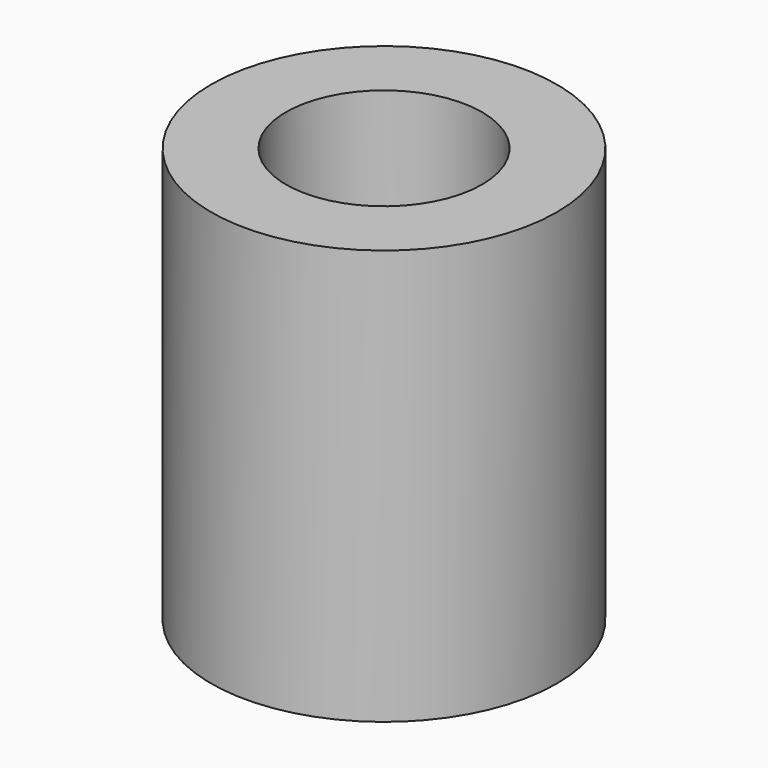
from build123d import *

# Parameters (mm, degrees)
F0_R     = 15.875
F1_DEPTH = 38.1
F2_W     = 9.652
F2_H     = 9.652
F3_DEPTH = 9.652
F4_R     = 9.0043
F5_DEPTH = 17.78
F7_DEPTH = 8.89


with BuildPart() as f1:
    # F0 (on Top) → F1 (new body)
    with BuildSketch(Plane.XY):
        Circle(F0_R)
    extrude(amount=-F1_DEPTH)

    # F2 (on face) → F3 (cut)
    with BuildSketch(Plane(origin=(0, 0, -38.1), x_dir=(1, 0, 0), z_dir=(0, 0, -1))):
        Rectangle(F2_W, F2_H)
    extrude(amount=-F3_DEPTH, mode=Mode.SUBTRACT)

    # F4 (on face) → F5 (cut)
    with BuildSketch(Plane.XY):
        Circle(F4_R)
    extrude(amount=-F5_DEPTH, mode=Mode.SUBTRACT)

    # F6 (on face) → F7 (cut)
    with BuildSketch(Plane.XY.offset(-17.78)):
        with BuildLine():
            Line((5.571118, 7.0739), (-5.571118, 7.0739))
            ThreePointArc((-5.571118, 7.0739), (-9.0043, 0), (-5.571118, -7.0739))
            Line((-5.571118, -7.0739), (5.571118, -7.0739))
            ThreePointArc((5.571118, -7.0739), (8.100662, -3.931501), (9.0043, 0))
            ThreePointArc((9.0043, 0), (8.100662, 3.931501), (5.571118, 7.0739))
        make_face()
    extrude(amount=-F7_DEPTH, mode=Mode.SUBTRACT)


solid = f1.part
